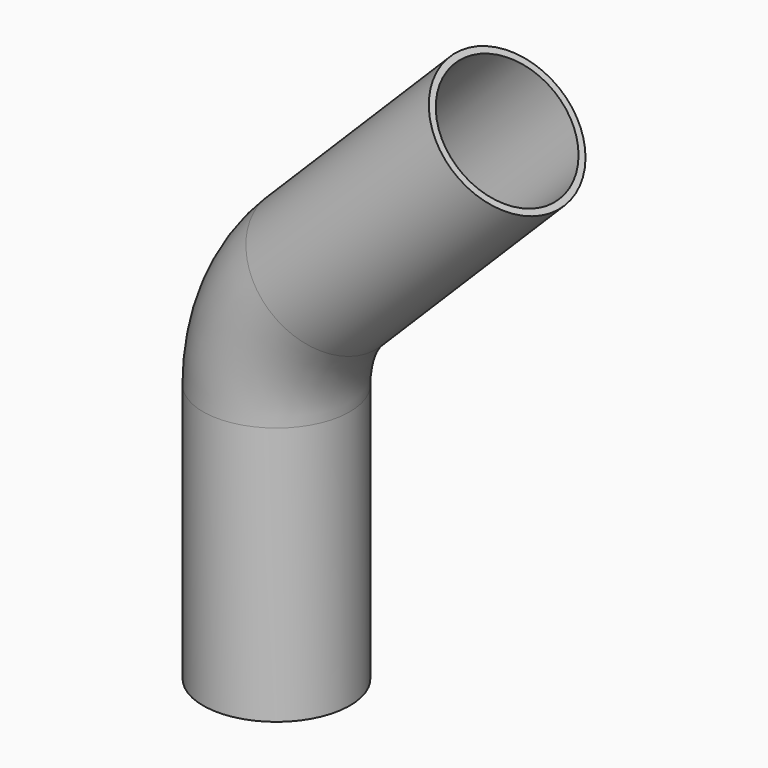
from build123d import *

# Parameters (mm, degrees)
F4_R   = 22.5
F4_R_2 = 20.5


with BuildPart() as f5:
    # F5: sweep along a path in F0
    with BuildLine(Plane.XZ) as f5_path:
        Line((70.710678, 170.710678), (14.644661, 114.644661))
        ThreePointArc((14.644661, 114.644661), (3.806023, 98.423493), (0, 79.289322))
        Line((0, 79.289322), (0, 0))
    # F4 (on face) → F5 (sweep)
    with BuildSketch(Plane(origin=(120.710678, 0, 120.710678), x_dir=(0, 1, 0), z_dir=(0.707107, 0, 0.707107))):
        with Locations((0, 70.710678)):
            Circle(F4_R)
        with Locations((0, 70.710678)):
            Circle(F4_R_2, mode=Mode.SUBTRACT)
    sweep(path=f5_path.line)


solid = f5.part
